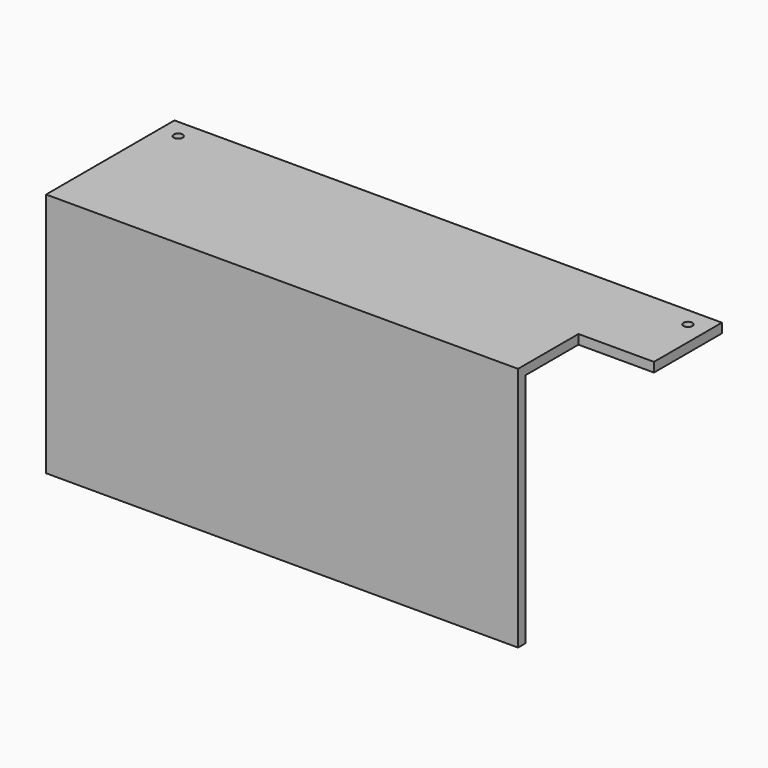
from build123d import *

# Parameters (mm, degrees)
F0_W     = 184.15
F0_H     = 53.975
F1_DEPTH = 3.175
F3_D     = 3
F4_W     = 25.4
F4_H     = 25.4
F5_DEPTH = 25.4
F6_W     = 158.75
F6_H     = 3.175
F7_DEPTH = 79.375


with BuildPart() as f1:
    # F0 (on Top) → F1 (new body)
    with BuildSketch(Plane.XY):
        with Locations((-92.075, 26.9875)):
            Rectangle(F0_W, F0_H)
    extrude(amount=F1_DEPTH)

    # F3 (through all)
    with Locations(Plane.XY.offset(3.175)):
        with Locations((-177.8, 47.625), (-6.35, 47.625)):
            Hole(F3_D / 2)

    # F4 (on face) → F5 (cut)
    with BuildSketch(Plane.XY.offset(3.175)):
        with Locations((-12.7, 12.7)):
            Rectangle(F4_W, F4_H)
    extrude(amount=-F5_DEPTH, mode=Mode.SUBTRACT)

    # F6 (on face) → F7 (join)
    with BuildSketch(Plane(origin=(0, 0, 0), x_dir=(1, 0, 0), z_dir=(0, 0, -1))):
        with Locations((-104.775, -1.5875)):
            Rectangle(F6_W, F6_H)
    extrude(amount=F7_DEPTH)


solid = f1.part
